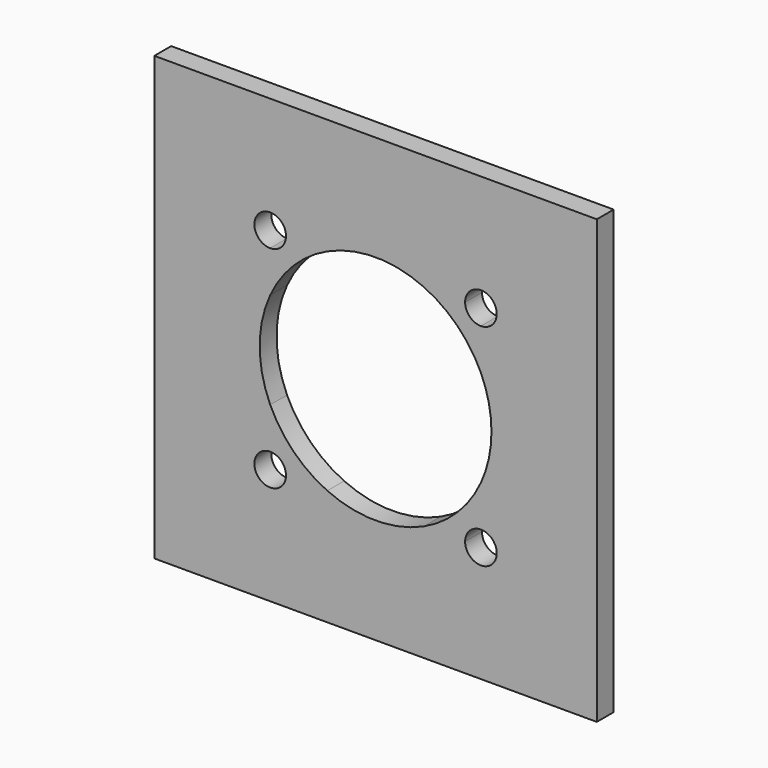
from build123d import *

# Parameters (mm, degrees)
F0_W     = 42
F0_H     = 42
F1_DEPTH = 2


with BuildPart() as f1:
    # F0 (on Front) → F1 (new body)
    with BuildSketch(Plane.XZ):
        Rectangle(F0_W, F0_H)
        with BuildLine():
            ThreePointArc((-10, 8.5), (-11.0606601718, 11.0606601718), (-8.5, 10))
            Line((-8.5, 10), (-4.582575695, 10))
            ThreePointArc((-4.582575695, 10), (0, 11), (4.582575695, 10))
            Line((4.582575695, 10), (8.5, 10))
            ThreePointArc((8.5, 10), (10, 11.5), (11.5, 10))
            ThreePointArc((11.5, 10), (11.0606601718, 8.9393398282), (10, 8.5))
            Line((10, 8.5), (10, 4.582575695))
            ThreePointArc((10, 4.582575695), (10.7470926301, 2.3452078799), (11, 0))
            ThreePointArc((11, 0), (10.7470926301, -2.3452078799), (10, -4.582575695))
            Line((10, -4.582575695), (10, -8.5))
            ThreePointArc((10, -8.5), (11.0606601718, -8.9393398282), (11.5, -10))
            ThreePointArc((11.5, -10), (10, -11.5), (8.5, -10))
            Line((8.5, -10), (4.582575695, -10))
            ThreePointArc((4.582575695, -10), (0, -11), (-4.582575695, -10))
            Line((-4.582575695, -10), (-8.5, -10))
            ThreePointArc((-8.5, -10), (-11.0606601718, -11.0606601718), (-10, -8.5))
            Line((-10, -8.5), (-10, -4.582575695))
            ThreePointArc((-10, -4.582575695), (-11, 0), (-10, 4.582575695))
            Line((-10, 4.582575695), (-10, 8.5))
        make_face(mode=Mode.SUBTRACT)
        with BuildLine():
            Line((-4.582575695, 10), (-8.5, 10))
            ThreePointArc((-8.5, 10), (-8.9393398282, 8.9393398282), (-10, 8.5))
            Line((-10, 8.5), (-10, 4.582575695))
            ThreePointArc((-10, 4.582575695), (-7.7781745931, 7.7781745931), (-4.582575695, 10))
        make_face()
        with BuildLine():
            ThreePointArc((-4.582575695, -10), (-7.7781745931, -7.7781745931), (-10, -4.582575695))
            Line((-10, -4.582575695), (-10, -8.5))
            ThreePointArc((-10, -8.5), (-8.9393398282, -8.9393398282), (-8.5, -10))
            Line((-8.5, -10), (-4.582575695, -10))
        make_face()
        with BuildLine():
            Line((10, -8.5), (10, -4.582575695))
            ThreePointArc((10, -4.582575695), (7.7781745931, -7.7781745931), (4.582575695, -10))
            Line((4.582575695, -10), (8.5, -10))
            ThreePointArc((8.5, -10), (8.9393398282, -8.9393398282), (10, -8.5))
        make_face()
        with BuildLine():
            Line((8.5, 10), (4.582575695, 10))
            ThreePointArc((4.582575695, 10), (7.7781745931, 7.7781745931), (10, 4.582575695))
            Line((10, 4.582575695), (10, 8.5))
            ThreePointArc((10, 8.5), (8.9393398282, 8.9393398282), (8.5, 10))
        make_face()
    extrude(amount=F1_DEPTH)


solid = f1.part
